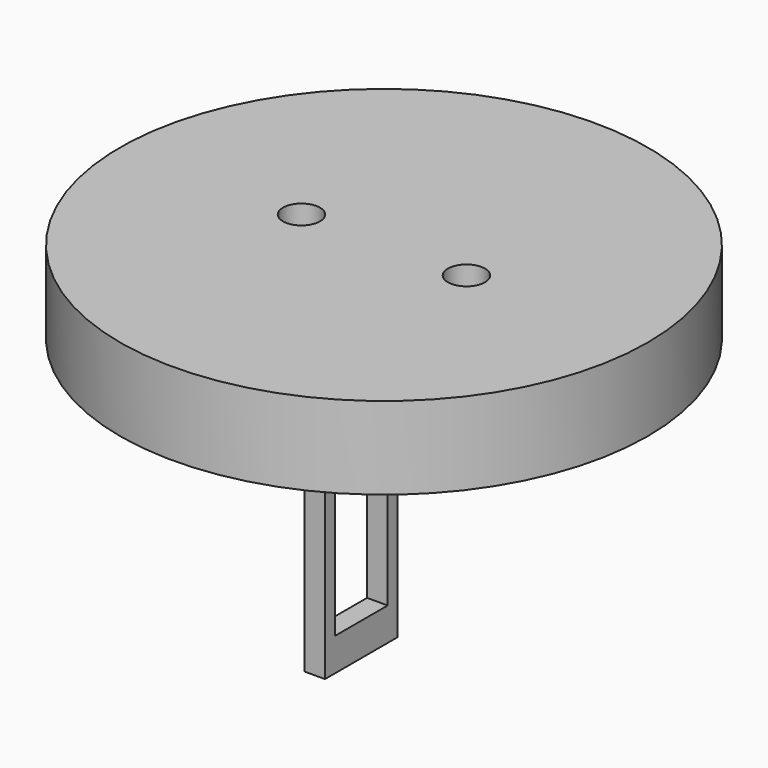
from build123d import *

# Parameters (mm, degrees)
SKETCH004_R     = 64.00438
PAD003_DEPTH    = 20
SKETCH006_R     = 4.5
POCKET001_DEPTH = 20
SKETCH005_R     = 4.5
POCKET002_DEPTH = 20
SKETCH007_W     = 5
SKETCH007_H     = 22
PAD004_DEPTH    = 70
SKETCH008_W     = 16
SKETCH008_H     = 40.7
POCKET003_DEPTH = 5


with BuildPart() as part:
    # Sketch004 → Pad003 (new body)
    with BuildSketch(Plane.XY):
        Circle(SKETCH004_R)
    extrude(amount=PAD003_DEPTH)

    # Sketch006 → Pocket001 (cut)
    with BuildSketch(Plane.XY):
        with Locations((20, 0)):
            Circle(SKETCH006_R)
    extrude(amount=POCKET001_DEPTH, mode=Mode.SUBTRACT)

    # Sketch005 → Pocket002 (cut)
    with BuildSketch(Plane.XY):
        with Locations((-20, 0)):
            Circle(SKETCH005_R)
    extrude(amount=POCKET002_DEPTH, mode=Mode.SUBTRACT)

    # Sketch007 → Pad004 (join)
    with BuildSketch(Plane.XY):
        with Locations((-8, 0)):
            Rectangle(SKETCH007_W, SKETCH007_H)
    extrude(amount=-PAD004_DEPTH)

    # Sketch008 (on Face7 of Pad004) → Pocket003 (cut)
    with BuildSketch(Plane.YZ.offset(-5.5)):
        with Locations((0, -41.65)):
            Rectangle(SKETCH008_W, SKETCH008_H)
    extrude(amount=-POCKET003_DEPTH, mode=Mode.SUBTRACT)


with BuildPart() as part_1:
    # Body001 placement: moved
    add(part.part.moved(Location((-57, 6, -43))))


solid = part_1.part
